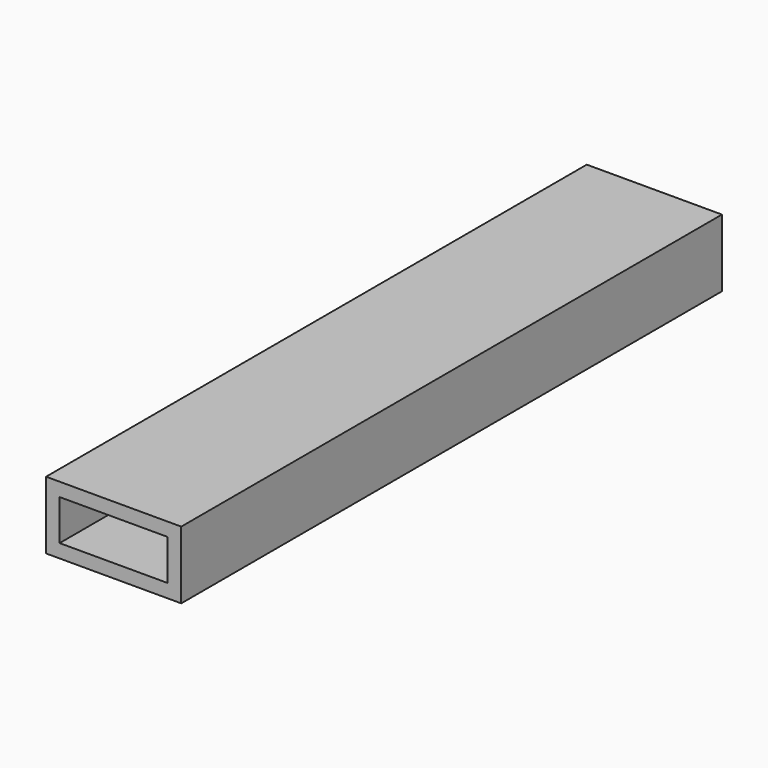
from build123d import *

# Parameters (mm, degrees)
F0_W     = 20.32
F0_H     = 7.62
F1_DEPTH = 127


with BuildPart() as f1:
    # F0 (on Front) → F1 (new body)
    with BuildSketch(Plane.XZ):
        Polygon((-25.4, 0), (0, 0), (0, 12.7), (-22.86, 12.7), (-25.4, 12.7), align=None)
        with Locations((-12.7, 6.35)):
            Rectangle(F0_W, F0_H, mode=Mode.SUBTRACT)
    extrude(amount=F1_DEPTH)


solid = f1.part
